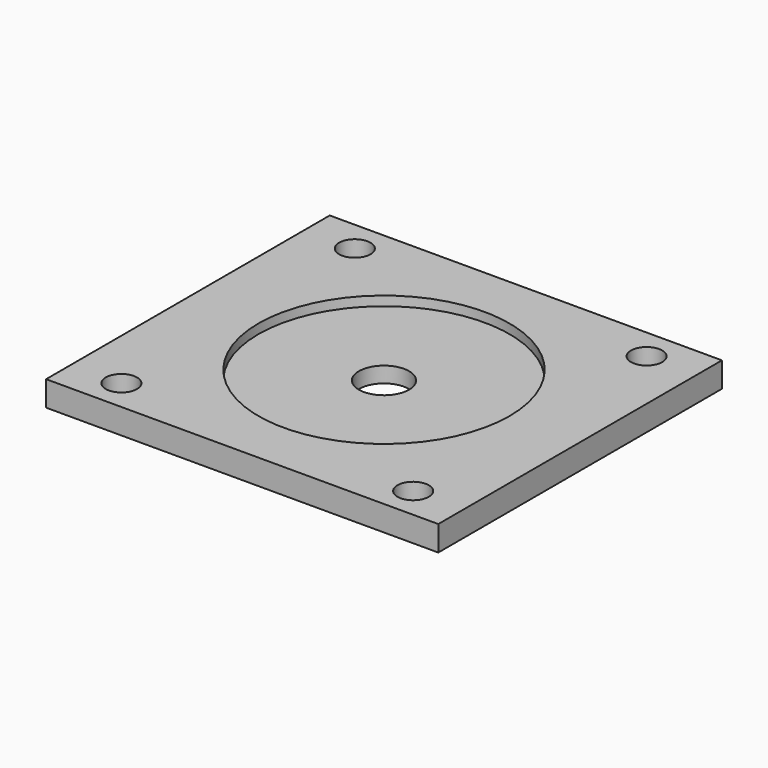
from build123d import *

# Parameters (mm, degrees)
SKETCH_W      = 62.5
SKETCH_H      = 56.5
SKETCH_R      = 2.5
SKETCH_R_2    = 4
PAD_DEPTH     = 4
SKETCH001_R   = 20
SKETCH001_R_2 = 4
POCKET_DEPTH  = 1.5


with BuildPart() as part:
    # Sketch → Pad (new body)
    with BuildSketch(Plane.XY):
        Rectangle(SKETCH_W, SKETCH_H)
        with Locations((23.25, -23.25)):
            Circle(SKETCH_R, mode=Mode.SUBTRACT)
        with Locations((23.25, 23.25)):
            Circle(SKETCH_R, mode=Mode.SUBTRACT)
        with Locations((-23.25, 23.25)):
            Circle(SKETCH_R, mode=Mode.SUBTRACT)
        with Locations((-23.25, -23.25)):
            Circle(SKETCH_R, mode=Mode.SUBTRACT)
        Circle(SKETCH_R_2, mode=Mode.SUBTRACT)
    extrude(amount=PAD_DEPTH)

    # Sketch001 (on Face11 of Pad) → Pocket (cut)
    with BuildSketch(Plane.XY.offset(4)):
        Circle(SKETCH001_R)
        Circle(SKETCH001_R_2, mode=Mode.SUBTRACT)
    extrude(amount=-POCKET_DEPTH, mode=Mode.SUBTRACT)


solid = part.part
